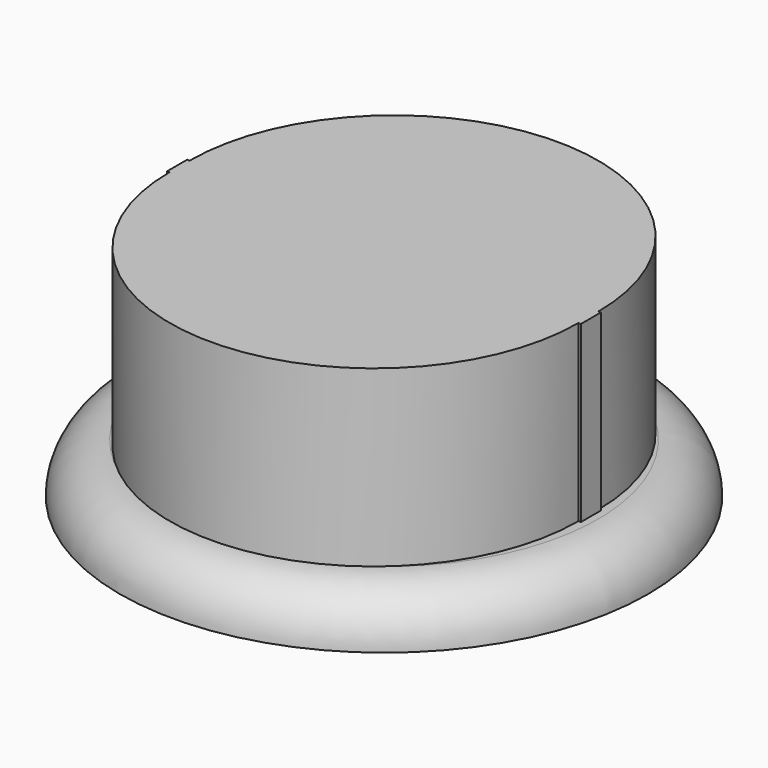
from build123d import *

# Parameters (mm, degrees)
PAD_DEPTH = 3.5


with BuildPart() as part:
    # Sketch → Pad (new body)
    with BuildSketch(Plane.XY):
        with BuildLine():
            Line((-4.15, -0.25), (-4.15, 0.25))
            Line((-4.15, 0.25), (-4.1, 0.25))
            ThreePointArc((4.1, 0.25), (0, 4.35), (-4.1, 0.25))
            Line((4.1, 0.25), (4.15, 0.25))
            Line((4.15, 0.25), (4.15, -0.25))
            Line((4.15, -0.25), (4.1, -0.25))
            ThreePointArc((-4.1, -0.25), (0, -4.35), (4.1, -0.25))
            Line((-4.1, -0.25), (-4.15, -0.25))
        make_face()
    extrude(amount=PAD_DEPTH)

    # Sketch001 → Revolution (revolve)
    with BuildSketch(Plane.XZ):
        with BuildLine():
            Line((0, 0), (-4.3, 0))
            ThreePointArc((-4.3, 0), (-5.007107, -0.292893), (-5.3, -1))
            Line((-5.3, -1), (0, -1))
            Line((0, -1), (0, 0))
        make_face()
    revolve(axis=Axis((0, 0, 0), (0, 0, 1)))


solid = part.part
